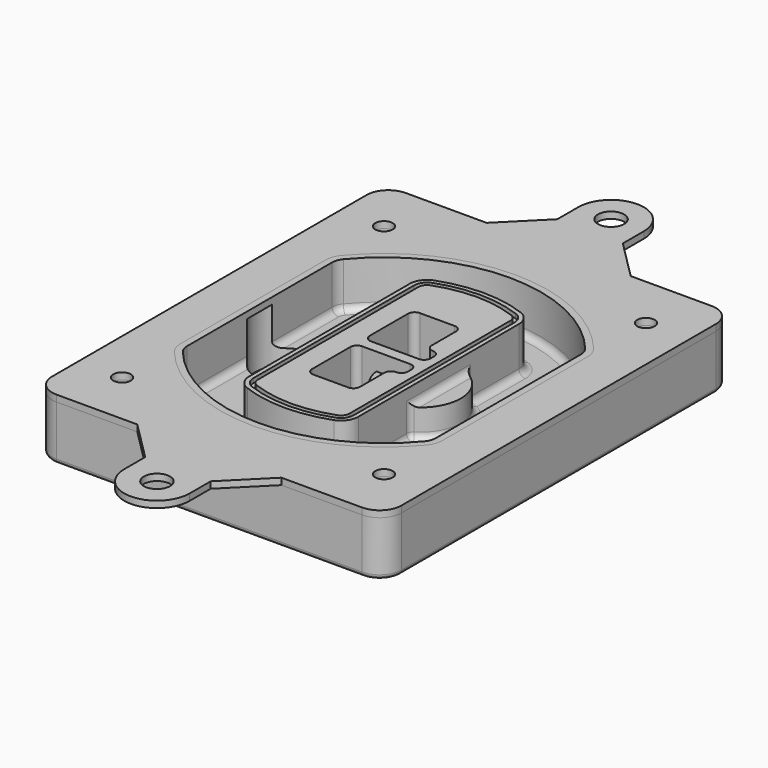
from build123d import *

# Parameters (mm, degrees)
F0_R      = 4
F1_DEPTH  = 25
F2_DEPTH  = 3
F3_DEPTH  = 18
F5_DEPTH  = 21
F6_DEPTH  = 2
F8_DEPTH  = 20
F9_DEPTH  = 16
F10_DEPTH = 25
F7_R      = 6
F7_R_2    = 4
F11_DEPTH = 6
F13_DEPTH = 9
F14_R     = 3
F15_R     = 2
F16_R     = 6
F16_R_2   = 4
F17_DEPTH = 3


with BuildPart() as f1:
    # F0 (on Top) → F1 (new body)
    with BuildSketch(Plane.XY):
        with BuildLine():
            ThreePointArc((-80, -90), (-77.0710678119, -97.0710678119), (-70, -100))
            Line((-70, -100), (70, -100))
            ThreePointArc((70, -100), (77.0710678119, -97.0710678119), (80, -90))
            Line((80, -90), (80, 90))
            ThreePointArc((80, 90), (77.0710678119, 97.0710678119), (70, 100))
            Line((70, 100), (-70, 100))
            ThreePointArc((-70, 100), (-77.0710678119, 97.0710678119), (-80, 90))
            Line((-80, 90), (-80, -90))
        make_face()
        with Locations((-60, -75)):
            Circle(F0_R, mode=Mode.SUBTRACT)
        with Locations((60, -75)):
            Circle(F0_R, mode=Mode.SUBTRACT)
        with Locations((-60, 75)):
            Circle(F0_R, mode=Mode.SUBTRACT)
        with BuildLine():
            ThreePointArc((-64, 41.5331193146), (-63.1675592038, 46.288682858), (-60.7692307692, 50.4787142439))
            ThreePointArc((-60.7692307692, 50.4787142439), (0, 79), (60.7692307692, 50.4787142439))
            ThreePointArc((60.7692307692, 50.4787142439), (63.1675592038, 46.288682858), (64, 41.5331193146))
            Line((64, 41.5331193146), (64, -41.5331193146))
            ThreePointArc((64, -41.5331193146), (63.1675592038, -46.288682858), (60.7692307692, -50.4787142439))
            ThreePointArc((60.7692307692, -50.4787142439), (0, -79), (-60.7692307692, -50.4787142439))
            ThreePointArc((-60.7692307692, -50.4787142439), (-63.1675592038, -46.288682858), (-64, -41.5331193146))
            Line((-64, -41.5331193146), (-64, 41.5331193146))
        make_face(mode=Mode.SUBTRACT)
        with Locations((60, 75)):
            Circle(F0_R, mode=Mode.SUBTRACT)
        with BuildLine():
            ThreePointArc((60.7692307692, 50.4787142439), (0, 79), (-60.7692307692, 50.4787142439))
            ThreePointArc((-60.7692307692, 50.4787142439), (-63.1675592038, 46.288682858), (-64, 41.5331193146))
            Line((-64, 41.5331193146), (-64, -41.5331193146))
            ThreePointArc((-64, -41.5331193146), (-63.1675592038, -46.288682858), (-60.7692307692, -50.4787142439))
            ThreePointArc((-60.7692307692, -50.4787142439), (0, -79), (60.7692307692, -50.4787142439))
            ThreePointArc((60.7692307692, -50.4787142439), (63.1675592038, -46.288682858), (64, -41.5331193146))
            Line((64, -41.5331193146), (64, 41.5331193146))
            ThreePointArc((64, 41.5331193146), (63.1675592038, 46.288682858), (60.7692307692, 50.4787142439))
        make_face()
        with BuildLine():
            Line((-60, -41.5331193146), (-60, 41.5331193146))
            ThreePointArc((-60, 41.5331193146), (-59.4053994313, 44.929950417), (-57.6923076923, 47.9228299784))
            ThreePointArc((-57.6923076923, 47.9228299784), (0, 75), (57.6923076923, 47.9228299784))
            ThreePointArc((57.6923076923, 47.9228299784), (59.4053994313, 44.929950417), (60, 41.5331193146))
            Line((60, 41.5331193146), (60, -41.5331193146))
            ThreePointArc((60, -41.5331193146), (59.4053994313, -44.929950417), (57.6923076923, -47.9228299784))
            ThreePointArc((57.6923076923, -47.9228299784), (0, -75), (-57.6923076923, -47.9228299784))
            ThreePointArc((-57.6923076923, -47.9228299784), (-59.4053994313, -44.929950417), (-60, -41.5331193146))
        make_face(mode=Mode.SUBTRACT)
        with BuildLine():
            ThreePointArc((-57.6923076923, 47.9228299784), (-59.4053994313, 44.929950417), (-60, 41.5331193146))
            Line((-60, 41.5331193146), (-60, -41.5331193146))
            ThreePointArc((-60, -41.5331193146), (-59.4053994313, -44.929950417), (-57.6923076923, -47.9228299784))
            ThreePointArc((-57.6923076923, -47.9228299784), (0, -75), (57.6923076923, -47.9228299784))
            ThreePointArc((57.6923076923, -47.9228299784), (59.4053994313, -44.929950417), (60, -41.5331193146))
            Line((60, -41.5331193146), (60, 41.5331193146))
            ThreePointArc((60, 41.5331193146), (59.4053994313, 44.929950417), (57.6923076923, 47.9228299784))
            ThreePointArc((57.6923076923, 47.9228299784), (0, 75), (-57.6923076923, 47.9228299784))
        make_face()
        with BuildLine():
            ThreePointArc((55.3846153846, 46.0059167792), (56.5837796019, 43.9109010863), (57, 41.5331193146))
            Line((57, 41.5331193146), (57, -41.5331193146))
            ThreePointArc((57, -41.5331193146), (56.5837796019, -43.9109010863), (55.3846153846, -46.0059167792))
            ThreePointArc((55.3846153846, -46.0059167792), (0, -72), (-55.3846153846, -46.0059167792))
            ThreePointArc((-55.3846153846, -46.0059167792), (-56.5837796019, -43.9109010863), (-57, -41.5331193146))
            Line((-57, -41.5331193146), (-57, 41.5331193146))
            ThreePointArc((-57, 41.5331193146), (-56.5837796019, 43.9109010863), (-55.3846153846, 46.0059167792))
            ThreePointArc((-55.3846153846, 46.0059167792), (0, 72), (55.3846153846, 46.0059167792))
        make_face(mode=Mode.SUBTRACT)
        with BuildLine():
            Line((57, -41.5331193146), (57, 41.5331193146))
            ThreePointArc((57, 41.5331193146), (56.5837796019, 43.9109010863), (55.3846153846, 46.0059167792))
            ThreePointArc((55.3846153846, 46.0059167792), (0, 72), (-55.3846153846, 46.0059167792))
            ThreePointArc((-55.3846153846, 46.0059167792), (-56.5837796019, 43.9109010863), (-57, 41.5331193146))
            Line((-57, 41.5331193146), (-57, -41.5331193146))
            ThreePointArc((-57, -41.5331193146), (-56.5837796019, -43.9109010863), (-55.3846153846, -46.0059167792))
            ThreePointArc((-55.3846153846, -46.0059167792), (0, -72), (55.3846153846, -46.0059167792))
            ThreePointArc((55.3846153846, -46.0059167792), (56.5837796019, -43.9109010863), (57, -41.5331193146))
        make_face()
    extrude(amount=-F1_DEPTH)

    # F0 (on Top) → F2 (join)
    with BuildSketch(Plane.XY):
        with BuildLine():
            ThreePointArc((-57.6923076923, 47.9228299784), (-59.4053994313, 44.929950417), (-60, 41.5331193146))
            Line((-60, 41.5331193146), (-60, -41.5331193146))
            ThreePointArc((-60, -41.5331193146), (-59.4053994313, -44.929950417), (-57.6923076923, -47.9228299784))
            ThreePointArc((-57.6923076923, -47.9228299784), (0, -75), (57.6923076923, -47.9228299784))
            ThreePointArc((57.6923076923, -47.9228299784), (59.4053994313, -44.929950417), (60, -41.5331193146))
            Line((60, -41.5331193146), (60, 41.5331193146))
            ThreePointArc((60, 41.5331193146), (59.4053994313, 44.929950417), (57.6923076923, 47.9228299784))
            ThreePointArc((57.6923076923, 47.9228299784), (0, 75), (-57.6923076923, 47.9228299784))
        make_face()
        with BuildLine():
            ThreePointArc((55.3846153846, 46.0059167792), (56.5837796019, 43.9109010863), (57, 41.5331193146))
            Line((57, 41.5331193146), (57, -41.5331193146))
            ThreePointArc((57, -41.5331193146), (56.5837796019, -43.9109010863), (55.3846153846, -46.0059167792))
            ThreePointArc((55.3846153846, -46.0059167792), (0, -72), (-55.3846153846, -46.0059167792))
            ThreePointArc((-55.3846153846, -46.0059167792), (-56.5837796019, -43.9109010863), (-57, -41.5331193146))
            Line((-57, -41.5331193146), (-57, 41.5331193146))
            ThreePointArc((-57, 41.5331193146), (-56.5837796019, 43.9109010863), (-55.3846153846, 46.0059167792))
            ThreePointArc((-55.3846153846, 46.0059167792), (0, 72), (55.3846153846, 46.0059167792))
        make_face(mode=Mode.SUBTRACT)
    extrude(amount=F2_DEPTH)

    # F0 (on Top) → F3 (cut)
    with BuildSketch(Plane.XY):
        with BuildLine():
            Line((57, -41.5331193146), (57, 41.5331193146))
            ThreePointArc((57, 41.5331193146), (56.5837796019, 43.9109010863), (55.3846153846, 46.0059167792))
            ThreePointArc((55.3846153846, 46.0059167792), (0, 72), (-55.3846153846, 46.0059167792))
            ThreePointArc((-55.3846153846, 46.0059167792), (-56.5837796019, 43.9109010863), (-57, 41.5331193146))
            Line((-57, 41.5331193146), (-57, -41.5331193146))
            ThreePointArc((-57, -41.5331193146), (-56.5837796019, -43.9109010863), (-55.3846153846, -46.0059167792))
            ThreePointArc((-55.3846153846, -46.0059167792), (0, -72), (55.3846153846, -46.0059167792))
            ThreePointArc((55.3846153846, -46.0059167792), (56.5837796019, -43.9109010863), (57, -41.5331193146))
        make_face()
    extrude(amount=-F3_DEPTH, mode=Mode.SUBTRACT)

    # F4 (on face) → F5 (join, through all)
    with BuildSketch(Plane.XY.offset(3)):
        with BuildLine():
            ThreePointArc((-25, -45.9565011723), (-23.5652144532, -50.5279297437), (-19.7755102041, -53.4596034045))
            ThreePointArc((-19.7755102041, -53.4596034045), (0, -57), (19.7755102041, -53.4596034045))
            ThreePointArc((19.7755102041, -53.4596034045), (23.5652144532, -50.5279297437), (25, -45.9565011723))
            Line((25, -45.9565011723), (25, 45.9565011723))
            ThreePointArc((25, 45.9565011723), (23.5652144532, 50.5279297437), (19.7755102041, 53.4596034045))
            ThreePointArc((19.7755102041, 53.4596034045), (0, 57), (-19.7755102041, 53.4596034045))
            ThreePointArc((-19.7755102041, 53.4596034045), (-23.5652144532, 50.5279297437), (-25, 45.9565011723))
            Line((-25, 45.9565011723), (-25, -45.9565011723))
        make_face()
        with BuildLine():
            ThreePointArc((19.0816326531, 51.5838278465), (21.9239108399, 49.3850726009), (23, 45.9565011723))
            Line((23, 45.9565011723), (23, -45.9565011723))
            ThreePointArc((23, -45.9565011723), (21.9239108399, -49.3850726009), (19.0816326531, -51.5838278465))
            ThreePointArc((19.0816326531, -51.5838278465), (0, -55), (-19.0816326531, -51.5838278465))
            ThreePointArc((-19.0816326531, -51.5838278465), (-21.9239108399, -49.3850726009), (-23, -45.9565011723))
            Line((-23, -45.9565011723), (-23, 45.9565011723))
            ThreePointArc((-23, 45.9565011723), (-21.9239108399, 49.3850726009), (-19.0816326531, 51.5838278465))
            ThreePointArc((-19.0816326531, 51.5838278465), (0, 55), (19.0816326531, 51.5838278465))
        make_face(mode=Mode.SUBTRACT)
        with BuildLine():
            Line((23, -45.9565011723), (23, 45.9565011723))
            ThreePointArc((23, 45.9565011723), (21.9239108399, 49.3850726009), (19.0816326531, 51.5838278465))
            ThreePointArc((19.0816326531, 51.5838278465), (0, 55), (-19.0816326531, 51.5838278465))
            ThreePointArc((-19.0816326531, 51.5838278465), (-21.9239108399, 49.3850726009), (-23, 45.9565011723))
            Line((-23, 45.9565011723), (-23, -45.9565011723))
            ThreePointArc((-23, -45.9565011723), (-21.9239108399, -49.3850726009), (-19.0816326531, -51.5838278465))
            ThreePointArc((-19.0816326531, -51.5838278465), (0, -55), (19.0816326531, -51.5838278465))
            ThreePointArc((19.0816326531, -51.5838278465), (21.9239108399, -49.3850726009), (23, -45.9565011723))
        make_face()
        with BuildLine():
            ThreePointArc((18.387755102, 49.7080522884), (20.2826072266, 48.242215458), (21, 45.9565011723))
            Line((21, 45.9565011723), (21, -45.9565011723))
            ThreePointArc((21, -45.9565011723), (20.2826072266, -48.242215458), (18.387755102, -49.7080522884))
            ThreePointArc((18.387755102, -49.7080522884), (0, -53), (-18.387755102, -49.7080522884))
            ThreePointArc((-18.387755102, -49.7080522884), (-20.2826072266, -48.242215458), (-21, -45.9565011723))
            Line((-21, -45.9565011723), (-21, 45.9565011723))
            ThreePointArc((-21, 45.9565011723), (-20.2826072266, 48.242215458), (-18.387755102, 49.7080522884))
            ThreePointArc((-18.387755102, 49.7080522884), (0, 53), (18.387755102, 49.7080522884))
        make_face(mode=Mode.SUBTRACT)
        with BuildLine():
            Line((21, -45.9565011723), (21, 45.9565011723))
            ThreePointArc((21, 45.9565011723), (20.2826072266, 48.242215458), (18.387755102, 49.7080522884))
            ThreePointArc((18.387755102, 49.7080522884), (0, 53), (-18.387755102, 49.7080522884))
            ThreePointArc((-18.387755102, 49.7080522884), (-20.2826072266, 48.242215458), (-21, 45.9565011723))
            Line((-21, 45.9565011723), (-21, -45.9565011723))
            ThreePointArc((-21, -45.9565011723), (-20.2826072266, -48.242215458), (-18.387755102, -49.7080522884))
            ThreePointArc((-18.387755102, -49.7080522884), (0, -53), (18.387755102, -49.7080522884))
            ThreePointArc((18.387755102, -49.7080522884), (20.2826072266, -48.242215458), (21, -45.9565011723))
        make_face()
        with BuildLine():
            Line((-8, -2.5), (14, -2.5))
            ThreePointArc((14, -2.5), (16.1213203436, -3.3786796564), (17, -5.5))
            Line((17, -5.5), (17, -7.5))
            ThreePointArc((17, -7.5), (16.1213203436, -9.6213203436), (14, -10.5))
            ThreePointArc((14, -10.5), (11.8786796564, -11.3786796564), (11, -13.5))
            Line((11, -13.5), (11, -27.5))
            ThreePointArc((11, -27.5), (10.1213203436, -29.6213203436), (8, -30.5))
            Line((8, -30.5), (-8, -30.5))
            ThreePointArc((-8, -30.5), (-10.1213203436, -29.6213203436), (-11, -27.5))
            Line((-11, -27.5), (-11, -5.5))
            ThreePointArc((-11, -5.5), (-10.1213203436, -3.3786796564), (-8, -2.5))
        make_face(mode=Mode.SUBTRACT)
        with BuildLine():
            ThreePointArc((-8, 2.5), (-10.1213203436, 3.3786796564), (-11, 5.5))
            Line((-11, 5.5), (-11, 27.5))
            ThreePointArc((-11, 27.5), (-10.1213203436, 29.6213203436), (-8, 30.5))
            Line((-8, 30.5), (8, 30.5))
            ThreePointArc((8, 30.5), (10.1213203436, 29.6213203436), (11, 27.5))
            Line((11, 27.5), (11, 13.5))
            ThreePointArc((11, 13.5), (11.8786796564, 11.3786796564), (14, 10.5))
            ThreePointArc((14, 10.5), (16.1213203436, 9.6213203436), (17, 7.5))
            Line((17, 7.5), (17, 5.5))
            ThreePointArc((17, 5.5), (16.1213203436, 3.3786796564), (14, 2.5))
            Line((14, 2.5), (-8, 2.5))
        make_face(mode=Mode.SUBTRACT)
    extrude(amount=-F5_DEPTH)

    # F4 (on face) → F6 (cut)
    with BuildSketch(Plane.XY.offset(3)):
        with BuildLine():
            Line((23, -45.9565011723), (23, 45.9565011723))
            ThreePointArc((23, 45.9565011723), (21.9239108399, 49.3850726009), (19.0816326531, 51.5838278465))
            ThreePointArc((19.0816326531, 51.5838278465), (0, 55), (-19.0816326531, 51.5838278465))
            ThreePointArc((-19.0816326531, 51.5838278465), (-21.9239108399, 49.3850726009), (-23, 45.9565011723))
            Line((-23, 45.9565011723), (-23, -45.9565011723))
            ThreePointArc((-23, -45.9565011723), (-21.9239108399, -49.3850726009), (-19.0816326531, -51.5838278465))
            ThreePointArc((-19.0816326531, -51.5838278465), (0, -55), (19.0816326531, -51.5838278465))
            ThreePointArc((19.0816326531, -51.5838278465), (21.9239108399, -49.3850726009), (23, -45.9565011723))
        make_face()
        with BuildLine():
            ThreePointArc((18.387755102, 49.7080522884), (20.2826072266, 48.242215458), (21, 45.9565011723))
            Line((21, 45.9565011723), (21, -45.9565011723))
            ThreePointArc((21, -45.9565011723), (20.2826072266, -48.242215458), (18.387755102, -49.7080522884))
            ThreePointArc((18.387755102, -49.7080522884), (0, -53), (-18.387755102, -49.7080522884))
            ThreePointArc((-18.387755102, -49.7080522884), (-20.2826072266, -48.242215458), (-21, -45.9565011723))
            Line((-21, -45.9565011723), (-21, 45.9565011723))
            ThreePointArc((-21, 45.9565011723), (-20.2826072266, 48.242215458), (-18.387755102, 49.7080522884))
            ThreePointArc((-18.387755102, 49.7080522884), (0, 53), (18.387755102, 49.7080522884))
        make_face(mode=Mode.SUBTRACT)
    extrude(amount=-F6_DEPTH, mode=Mode.SUBTRACT)

    # F7 (on face) → F8 (join)
    with BuildSketch(Plane(origin=(0, 0, -25), x_dir=(1, 0, 0), z_dir=(0, 0, -1))):
        with BuildLine():
            ThreePointArc((3.28842436, 0), (16.7567035675, 13.4682792075), (30.224982775, 0))
            Line((30.224982775, 0), (35.224982775, 0))
            ThreePointArc((35.224982775, 0), (16.7567035675, 18.4682792075), (-1.71157564, 0))
            Line((-1.71157564, 0), (3.28842436, 0))
        make_face()
        with BuildLine():
            Line((3.28842436, 0), (30.224982775, 0))
            ThreePointArc((30.224982775, 0), (16.7567035675, 13.4682792075), (3.28842436, 0))
        make_face()
        with BuildLine():
            ThreePointArc((3.28842436, 0), (16.7567035675, -13.4682792075), (30.224982775, 0))
            Line((30.224982775, 0), (3.28842436, 0))
        make_face()
        with BuildLine():
            Line((35.224982775, 0), (30.224982775, 0))
            ThreePointArc((30.224982775, 0), (16.7567035675, -13.4682792075), (3.28842436, 0))
            Line((3.28842436, 0), (-1.71157564, 0))
            ThreePointArc((-1.71157564, 0), (16.7567035675, -18.4682792075), (35.224982775, 0))
        make_face()
    extrude(amount=-F8_DEPTH)

    # F7 (on face) → F9 (cut)
    with BuildSketch(Plane(origin=(0, 0, -25), x_dir=(1, 0, 0), z_dir=(0, 0, -1))):
        with BuildLine():
            Line((3.28842436, 0), (30.224982775, 0))
            ThreePointArc((30.224982775, 0), (16.7567035675, 13.4682792075), (3.28842436, 0))
        make_face()
        with BuildLine():
            ThreePointArc((3.28842436, 0), (16.7567035675, -13.4682792075), (30.224982775, 0))
            Line((30.224982775, 0), (3.28842436, 0))
        make_face()
    extrude(amount=-F9_DEPTH, mode=Mode.SUBTRACT)

    # F7 (on face) → F10 (cut)
    with BuildSketch(Plane(origin=(0, 0, -25), x_dir=(1, 0, 0), z_dir=(0, 0, -1))):
        with BuildLine():
            Line((-59.0318229325, 0), (-32.0952645175, 0))
            ThreePointArc((-32.0952645175, 0), (-45.563543725, 13.4682792075), (-59.0318229325, 0))
        make_face()
        with BuildLine():
            ThreePointArc((-59.0318229325, 0), (-45.563543725, -13.4682792075), (-32.0952645175, 0))
            Line((-32.0952645175, 0), (-59.0318229325, 0))
        make_face()
    extrude(amount=-F10_DEPTH, mode=Mode.SUBTRACT)

    # F7 (on face) → F11 (cut)
    with BuildSketch(Plane(origin=(0, 0, -25), x_dir=(1, 0, 0), z_dir=(0, 0, -1))):
        with Locations((60, -75)):
            Circle(F7_R)
        with Locations((60, -75)):
            Circle(F7_R_2, mode=Mode.SUBTRACT)
        with Locations((60, -75)):
            Circle(F7_R)
        with Locations((60, -75)):
            Circle(F7_R_2, mode=Mode.SUBTRACT)
        with Locations((-60, -75)):
            Circle(F7_R)
        with Locations((-60, -75)):
            Circle(F7_R_2, mode=Mode.SUBTRACT)
        with Locations((-60, -75)):
            Circle(F7_R)
        with Locations((-60, -75)):
            Circle(F7_R_2, mode=Mode.SUBTRACT)
        with Locations((-60, 75)):
            Circle(F7_R)
        with Locations((-60, 75)):
            Circle(F7_R_2, mode=Mode.SUBTRACT)
        with Locations((-60, 75)):
            Circle(F7_R)
        with Locations((-60, 75)):
            Circle(F7_R_2, mode=Mode.SUBTRACT)
        with Locations((60, 75)):
            Circle(F7_R)
        with Locations((60, 75)):
            Circle(F7_R_2, mode=Mode.SUBTRACT)
        with Locations((60, 75)):
            Circle(F7_R)
        with Locations((60, 75)):
            Circle(F7_R_2, mode=Mode.SUBTRACT)
    extrude(amount=-F11_DEPTH, mode=Mode.SUBTRACT)

    # F12 (on face) → F13 (cut, through all)
    with BuildSketch(Plane(origin=(0, 0, -9), x_dir=(1, 0, 0), z_dir=(0, 0, -1))):
        with BuildLine():
            Line((11, 13.5), (11, 17.5481537753))
            ThreePointArc((11, 17.5481537753), (2.5696536419, 11.8239143813), (-1.5415842455, 2.5))
            Line((-1.5415842455, 2.5), (3.5224848595, 2.5))
            ThreePointArc((3.5224848595, 2.5), (6.1857188154, 8.3455872281), (11.2536447004, 12.2927168648))
            ThreePointArc((11.2536447004, 12.2927168648), (11.0640958889, 12.8831798879), (11, 13.5))
        make_face()
        with BuildLine():
            ThreePointArc((11.2536447004, -12.2927168648), (6.1857188154, -8.3455872281), (3.5224848595, -2.5))
            Line((3.5224848595, -2.5), (-1.5415842455, -2.5))
            ThreePointArc((-1.5415842455, -2.5), (2.5696536419, -11.8239143813), (11, -17.5481537753))
            Line((11, -17.5481537753), (11, -13.5))
            ThreePointArc((11, -13.5), (11.0640958889, -12.8831798879), (11.2536447004, -12.2927168648))
        make_face()
        with BuildLine():
            ThreePointArc((11.2536447004, 12.2927168648), (6.1857188154, 8.3455872281), (3.5224848595, 2.5))
            Line((3.5224848595, 2.5), (14, 2.5))
            ThreePointArc((14, 2.5), (16.1213203436, 3.3786796564), (17, 5.5))
            Line((17, 5.5), (17, 7.5))
            ThreePointArc((17, 7.5), (16.1213203436, 9.6213203436), (14, 10.5))
            ThreePointArc((14, 10.5), (12.3601599782, 10.9878446101), (11.2536447004, 12.2927168648))
        make_face()
        with BuildLine():
            Line((14, -2.5), (3.5224848595, -2.5))
            ThreePointArc((3.5224848595, -2.5), (6.1857188154, -8.3455872281), (11.2536447004, -12.2927168648))
            ThreePointArc((11.2536447004, -12.2927168648), (12.3601599782, -10.9878446101), (14, -10.5))
            ThreePointArc((14, -10.5), (16.1213203436, -9.6213203436), (17, -7.5))
            Line((17, -7.5), (17, -5.5))
            ThreePointArc((17, -5.5), (16.1213203436, -3.3786796564), (14, -2.5))
        make_face()
    extrude(amount=F13_DEPTH, mode=Mode.SUBTRACT)

    # F14
    f14_edges = [f1.edges().sort_by_distance(p)[0] for p in [
        (-57, -24.323314, -18),
        (-57, 24.323314, -18),
        (25, 0, -5),
        (25, 16.526506, -11.5),
        (25, -16.526506, -11.5),
        (25, -31.241504, -18),
        (35.224983, 0, -18),
    ]]
    fillet(f14_edges, radius=F14_R)

    # F15
    f15_edges = [f1.edges().sort_by_distance(p)[0] for p in [
        (0, -100, -25),
    ]]
    fillet(f15_edges, radius=F15_R)


with BuildPart() as f17:
    # F16 (on face) → F17 (new body, through all)
    with BuildSketch(Plane.XY):
        with BuildLine():
            Line((15, 118), (15, 130))
            ThreePointArc((15, 130), (0, 145), (-15, 130))
            Line((-15, 130), (-15, 118))
            Line((-15, 118), (-33, 100))
            Line((-33, 100), (33, 100))
            Line((33, 100), (15, 118))
        make_face()
        with Locations((0, 130)):
            Circle(F16_R, mode=Mode.SUBTRACT)
        with BuildLine():
            Line((15, -118), (33, -100))
            Line((33, -100), (-33, -100))
            Line((-33, -100), (-15, -118))
            Line((-15, -118), (-15, -130))
            ThreePointArc((-15, -130), (0, -145), (15, -130))
            Line((15, -130), (15, -118))
        make_face()
        with Locations((0, -130)):
            Circle(F16_R, mode=Mode.SUBTRACT)
        with BuildLine():
            Line((70, 100), (33, 100))
            Line((33, 100), (-33, 100))
            Line((-33, 100), (-70, 100))
            ThreePointArc((-70, 100), (-77.0710678119, 97.0710678119), (-80, 90))
            Line((-80, 90), (-80, -90))
            ThreePointArc((-80, -90), (-77.0710678119, -97.0710678119), (-70, -100))
            Line((-70, -100), (-33, -100))
            Line((-33, -100), (33, -100))
            Line((33, -100), (70, -100))
            ThreePointArc((70, -100), (77.0710678119, -97.0710678119), (80, -90))
            Line((80, -90), (80, 90))
            ThreePointArc((80, 90), (77.0710678119, 97.0710678119), (70, 100))
        make_face()
        with Locations((-60, -75)):
            Circle(F16_R_2, mode=Mode.SUBTRACT)
        with Locations((60, -75)):
            Circle(F16_R_2, mode=Mode.SUBTRACT)
        with Locations((-60, 75)):
            Circle(F16_R_2, mode=Mode.SUBTRACT)
        with BuildLine():
            ThreePointArc((-60, 41.5331193146), (-59.4053994313, 44.929950417), (-57.6923076923, 47.9228299784))
            ThreePointArc((-57.6923076923, 47.9228299784), (0, 75), (57.6923076923, 47.9228299784))
            ThreePointArc((57.6923076923, 47.9228299784), (59.4053994313, 44.929950417), (60, 41.5331193146))
            Line((60, 41.5331193146), (60, -41.5331193146))
            ThreePointArc((60, -41.5331193146), (59.4053994313, -44.929950417), (57.6923076923, -47.9228299784))
            ThreePointArc((57.6923076923, -47.9228299784), (0, -75), (-57.6923076923, -47.9228299784))
            ThreePointArc((-57.6923076923, -47.9228299784), (-59.4053994313, -44.929950417), (-60, -41.5331193146))
            Line((-60, -41.5331193146), (-60, 41.5331193146))
        make_face(mode=Mode.SUBTRACT)
        with Locations((60, 75)):
            Circle(F16_R_2, mode=Mode.SUBTRACT)
    extrude(amount=F17_DEPTH)


solid = Compound([f1.part, f17.part])
